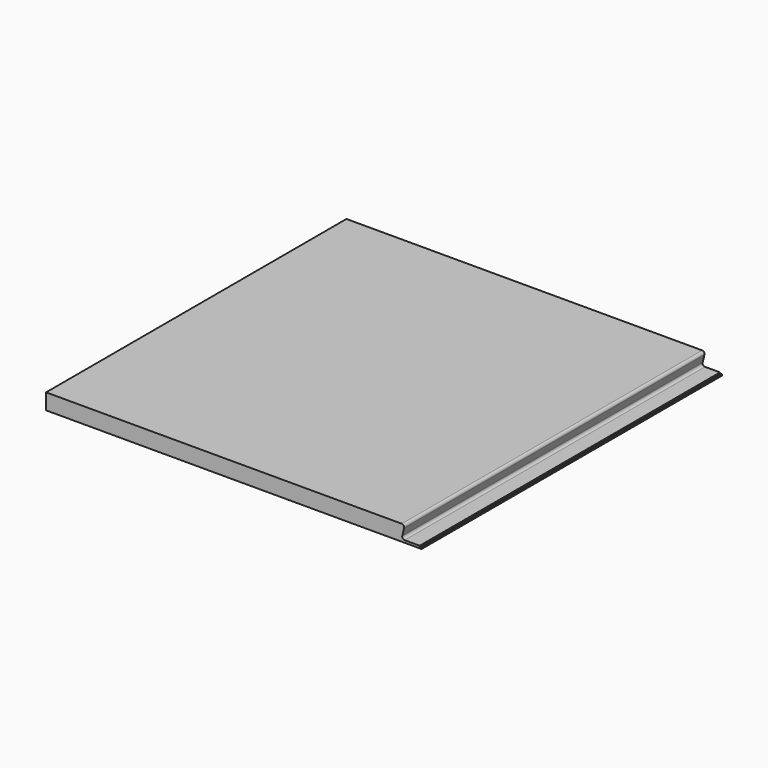
from build123d import *

# Parameters (mm, degrees)
F1_DEPTH = 508


with BuildPart() as f1:
    # F0 (on Front) → F1 (new body)
    with BuildSketch(Plane.XZ):
        with BuildLine():
            Line((-508, 0), (0, 0))
            Line((0, 0), (0, 1.905))
            Line((0, 1.905), (-2.54, 1.905))
            Line((-2.54, 1.905), (-2.54, 3.0988))
            Line((-2.54, 3.0988), (-22.9108, 3.0988))
            ThreePointArc((-22.9108, 3.0988), (-25.512847, 4.367931), (-26.114689, 7.199738))
            Line((-26.114689, 7.199738), (-23.58056, 17.362062))
            ThreePointArc((-23.58056, 17.362062), (-24.182401, 20.193869), (-26.784448, 21.463))
            Line((-26.784448, 21.463), (-508, 21.463))
            Line((-508, 21.463), (-508, 0))
        make_face()
    extrude(amount=-F1_DEPTH)


solid = f1.part
